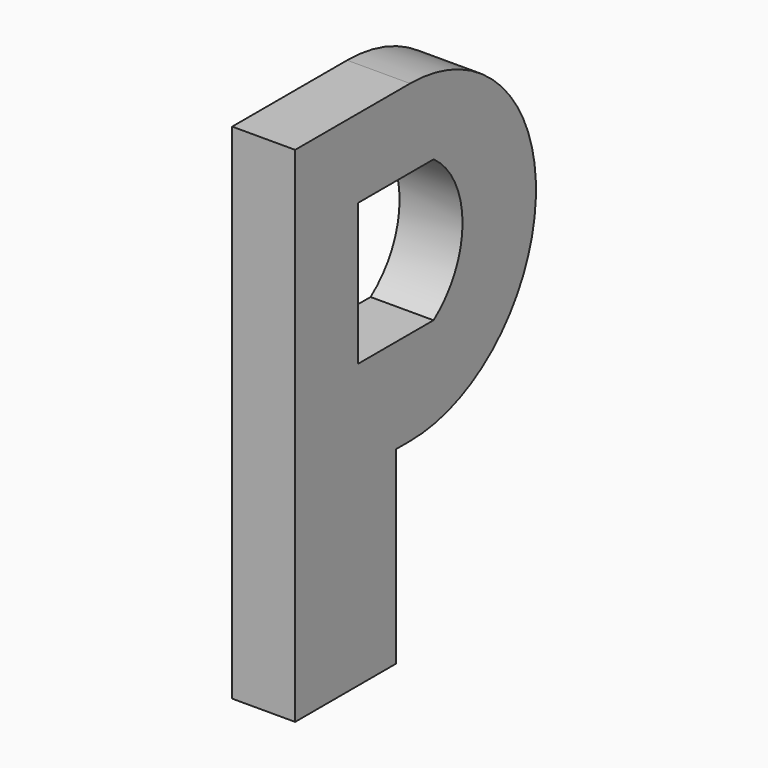
from build123d import *

# Parameters (mm, degrees)
F1_DEPTH = 25.4
F3_DEPTH = 25.4


with BuildPart() as f1:
    # F0 (on Right) → F1 (new body)
    with BuildSketch(Plane.YZ):
        with BuildLine():
            Line((0, 127), (0, -76.2))
            Line((0, -76.2), (50.8, -76.2))
            Line((50.8, -76.2), (50.8, 0))
            Line((50.8, 0), (57.9681, 0))
            ThreePointArc((57.9681, 0), (121.4681, 63.5), (57.9681, 127))
            Line((57.9681, 127), (29.295705, 127))
            Line((29.295705, 127), (0, 127))
        make_face()
    extrude(amount=F1_DEPTH)

    # F2 (on face) → F3 (cut)
    with BuildSketch(Plane.YZ.offset(25.4)):
        with BuildLine():
            Line((31.75, 38.1), (50.8, 38.1))
            Line((50.8, 38.1), (69.794171, 38.1))
            ThreePointArc((69.794171, 38.1), (84.424094, 66.660735), (69.85, 95.25))
            Line((69.85, 95.25), (31.75, 95.25))
            Line((31.75, 95.25), (31.75, 38.1))
        make_face()
    extrude(amount=-F3_DEPTH, mode=Mode.SUBTRACT)


solid = f1.part
